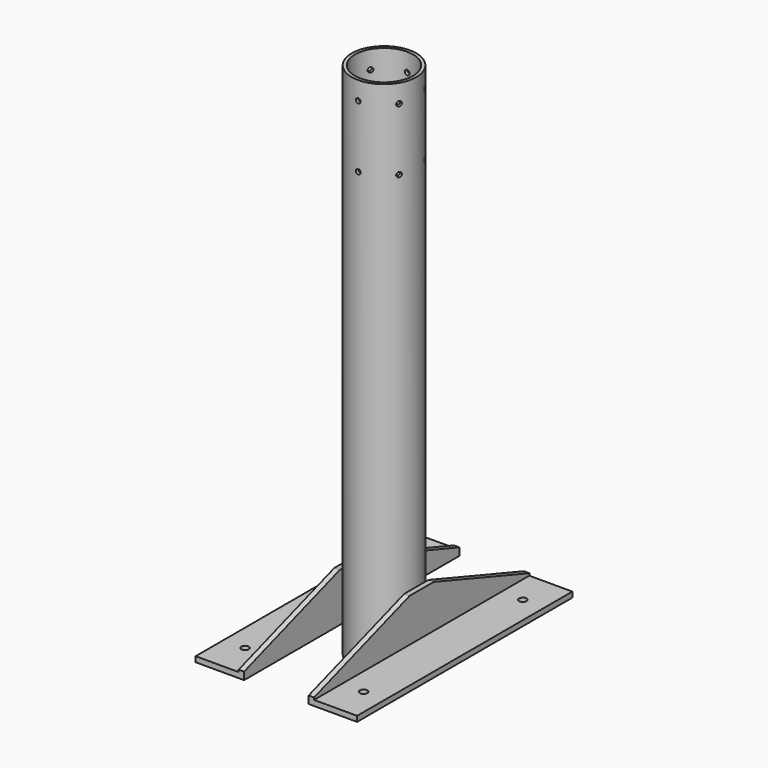
from build123d import *

# Parameters (mm, degrees)
F0_R      = 30
F0_R_2    = 27
F1_DEPTH  = 482
F3_DEPTH  = 125
F5_DEPTH  = 5
F9_R      = 3.5
F10_DEPTH = 5
F11_R     = 2.25
F13_COUNT = 6


with BuildPart() as f1:
    # F0 (on Top) → F1 (new body)
    with BuildSketch(Plane.XY):
        Circle(F0_R)
        Circle(F0_R_2, mode=Mode.SUBTRACT)
    extrude(amount=F1_DEPTH)


with BuildPart() as f3:
    # F2 (on Front) → F3 (new body, symmetric)
    with BuildSketch(Plane.XZ):
        Polygon((-30, 20), (-30, 65), (-35, 65), (-35, 25), (-75, 25), (-75, 20), align=None)
    extrude(amount=F3_DEPTH, both=True)

    # F6: F5 across plane


with BuildPart() as f5:
    # F4 (on face) → F5 (new body, through all)
    with BuildSketch(Plane(origin=(-35, 0, 0), x_dir=(0, -1, 0), z_dir=(-1, 0, 0))):
        Polygon((-125, 65), (-125, 27), (-14, 65), align=None)
    extrude(amount=-F5_DEPTH)


with BuildPart() as f3_1:
    add(f3.part)
    add(f5.part.mirror(Plane.XZ), mode=Mode.SUBTRACT)

    # F7: cut F5
    add(f5.part, mode=Mode.SUBTRACT)


with BuildPart() as f8_1:
    # F8: instance of F3
    add(f3_1.part.mirror(Plane.YZ))


with BuildPart() as f10_tool:
    # F9 (on face) → F10 (new body, through all)
    with BuildSketch(Plane.XY.offset(25)):
        with Locations((-55, 92.5)):
            Circle(F9_R)
        with Locations((-55, -92.5)):
            Circle(F9_R)
        with Locations((55, 92.5)):
            Circle(F9_R)
        with Locations((55, -92.5)):
            Circle(F9_R)
    extrude(amount=-F10_DEPTH)


with BuildPart() as f3_2:
    add(f3_1.part)

    # F10: cut by f10_tool
    add(f10_tool.part, mode=Mode.SUBTRACT)


with BuildPart() as f8_1_1:
    add(f8_1.part)

    # F10: cut by f10_tool
    add(f10_tool.part, mode=Mode.SUBTRACT)


with BuildPart() as f12:
    # F11 (on Front) → F12 (new body, up to the last surface of F1)
    with BuildSketch(Plane.XZ):
        with Locations((0, 465)):
            Circle(F11_R)
    extrude(until=Until.LAST, target=f1.part)


with BuildPart() as f12b:
    # F11 (on Front) → F12, piece 2 (new body, up to the last surface of F1)
    with BuildSketch(Plane.XZ):
        with Locations((0, 407)):
            Circle(F11_R)
    extrude(until=Until.LAST, target=f1.part)


with BuildPart() as f13_tool:
    # F13: F12, F12b ×6 about axis
    f13_axis = Axis((0, 0, 0), (0, 0, -1))
    for i in range(1, F13_COUNT):
        add(f12.part.rotate(f13_axis, i * 360 / F13_COUNT))
        add(f12b.part.rotate(f13_axis, i * 360 / F13_COUNT))


with BuildPart() as f1_1:
    add(f1.part)

    # F13: cut by f13_tool
    add(f13_tool.part, mode=Mode.SUBTRACT)


with BuildPart() as f12_1:
    add(f12.part)

    # F13: cut by f13_tool
    add(f13_tool.part, mode=Mode.SUBTRACT)


with BuildPart() as f12b_1:
    add(f12b.part)

    # F13: cut by f13_tool
    add(f13_tool.part, mode=Mode.SUBTRACT)


with BuildPart() as f1_2:
    add(f1_1.part)

    # F13#seed: cut F12, F12b
    add(f12_1.part, mode=Mode.SUBTRACT)
    add(f12b_1.part, mode=Mode.SUBTRACT)


solid = Compound([f3_2.part, f8_1_1.part, f1_2.part])
